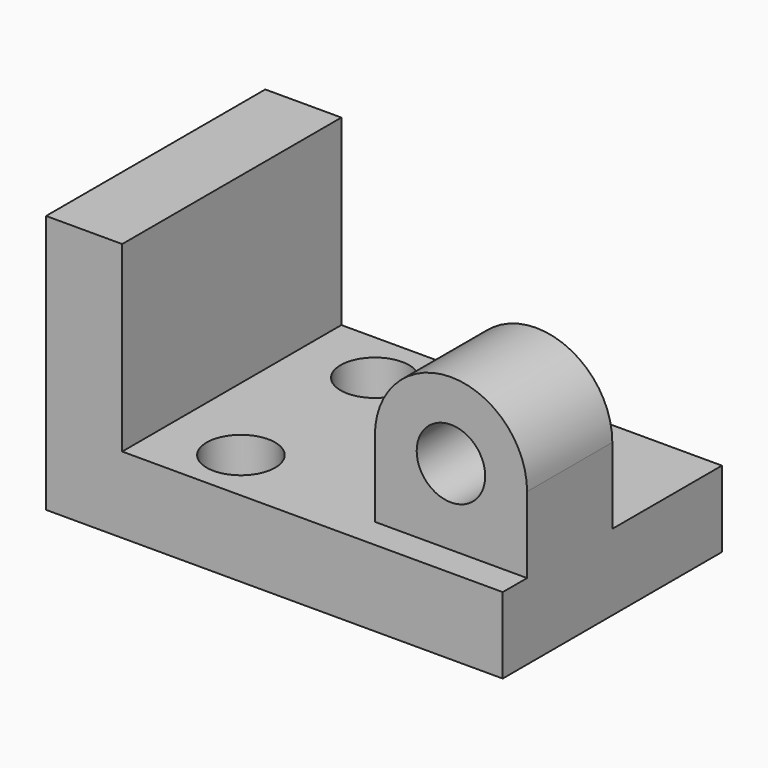
from build123d import *

# Parameters (mm, degrees)
F0_W     = 30
F0_H     = 18
F1_DEPTH = 5
F2_R     = 2.25
F3_DEPTH = 5
F5_START = -2
F5_DEPTH = 7
F7_DEPTH = 7
F8_W     = 5
F8_H     = 12
F9_DEPTH = 18


with BuildPart() as f1:
    # F0 (on Top) → F1 (new body)
    with BuildSketch(Plane.XY):
        Rectangle(F0_W, F0_H)
    extrude(amount=F1_DEPTH)

    # F2 (on face) → F3 (cut, through all)
    with BuildSketch(Plane.XY.offset(5)):
        with Locations((-5, 5.5)):
            Circle(F2_R)
        with Locations((-5, -5.5)):
            Circle(F2_R)
    extrude(amount=-F3_DEPTH, mode=Mode.SUBTRACT)

    # F4 (on face) → F5 (join)
    with BuildSketch(Plane.XZ.offset(9).offset(F5_START)):
        with BuildLine():
            Line((15, 5), (15, 10))
            ThreePointArc((15, 10), (9.9983587547, 14.9999997306), (5.0000010775, 9.9967175095))
            Line((5.0000010775, 9.9967175095), (5.0000010775, 5))
            Line((5.0000010775, 5), (15, 5))
        make_face()
    extrude(amount=-F5_DEPTH)

    # F6 (on face) → F7 (cut, through all)
    with BuildSketch(Plane.XZ.offset(7)):
        with BuildLine():
            Line((7.7483587547, 9.9967175095), (12.2483587547, 9.9967175095))
            ThreePointArc((12.2483587547, 9.9967175095), (9.9983587547, 12.2467175095), (7.7483587547, 9.9967175095))
        make_face()
        with BuildLine():
            ThreePointArc((7.7483587547, 9.9967175095), (9.9983587547, 7.7467175095), (12.2483587547, 9.9967175095))
            Line((12.2483587547, 9.9967175095), (7.7483587547, 9.9967175095))
        make_face()
    extrude(amount=-F7_DEPTH, mode=Mode.SUBTRACT)

    # F8 (on face) → F9 (join)
    with BuildSketch(Plane.XZ.offset(9)):
        with Locations((-12.5, 11)):
            Rectangle(F8_W, F8_H)
    extrude(amount=-F9_DEPTH)


solid = f1.part
